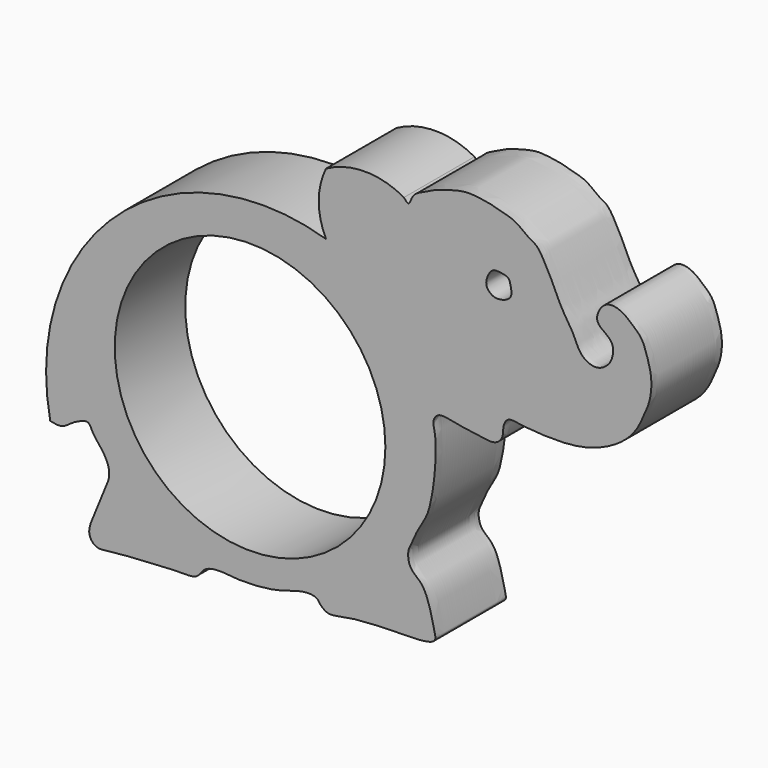
from build123d import *

# Parameters (mm, degrees)
F0_R     = 9.75
F1_DEPTH = 6.35


with BuildPart() as f1:
    # F0 (on Front) → F1 (new body)
    with BuildSketch(Plane.XZ):
        with BuildLine():
            ThreePointArc((-3.1697533292, 8.1384450586), (-3.6890684551, 5.9068302809), (-3.1697533292, 3.6752155032))
            ThreePointArc((-3.1697533292, 3.6752155032), (-18.1983390338, 0.3008746371), (-23.0383258459, -14.3216795933))
            add(Edge.make_bspline(
                [(2.4452780534, 8.1384450586), (2.5684903304, 7.9870655001), (2.8397562516, 7.653786087), (3.0197213416, 8.5505424972), (3.7655742436, 8.8949874463), (4.618098754, 9.3543974224), (5.5325039166, 9.6281891314), (6.3506558342, 9.856102724), (7.1135618384, 9.9651510289), (7.9135488319, 9.8727496412), (8.6716347154, 9.7729218338), (9.5871375594, 9.4944378325), (10.5415512712, 9.2705376511), (11.4299442854, 8.4535082307), (12.0982830744, 8.2281809431), (12.690619804, 7.096558771), (13.2021362263, 6.1681691684), (13.8043839537, 4.6938599096), (14.646748986, 3.6373172571), (15.1008459854, 2.1826775631), (16.3123443847, 1.7072375939), (17.1151556329, 2.2039207431), (17.4915393957, 2.7726511362), (17.5968800087, 3.847451348), (16.7842237057, 4.325997569), (16.2251421606, 4.8636970842), (16.5378073723, 5.7099014917), (17.0971580834, 6.2289421942), (18.104796534, 6.1305320528), (19.0471211802, 5.2986862405), (19.646141447, 4.7412031778), (19.9944843812, 3.6656017675), (20.3309881754, 2.5232038574), (20.2354467254, 1.0820721869), (19.7162670421, -0.1366418014), (19.0466177907, -1.5516022011), (17.6380941843, -2.6764190683), (16.1650042243, -3.3181429299), (14.9930408223, -3.5845487404), (13.6976417389, -3.7190794749), (11.6163883051, -3.6505357039), (10.7361893937, -3.5081014097), (9.8851966391, -3.3799611449), (9.5504717527, -4.0663130092), (9.6400738543, -4.7683376401), (9.0333422751, -5.4161082464), (7.9107536698, -5.2072975311), (6.487895522, -5.0335613798), (5.7556997703, -4.8661392385), (4.8934278706, -4.7290113567), (4.4683264018, -5.3625444479), (4.730582001, -6.0883324172), (4.7510258365, -7.5042029888), (4.6345141328, -9.088343012), (4.4036612773, -10.5625256581), (4.0758368281, -11.6615809059), (3.383199746, -12.6458279541), (3.0291307089, -13.6235152802), (2.6750264774, -14.1737814458), (2.8190363262, -15.3230948024), (3.7847786526, -15.8336675603), (4.3317419369, -17.2049174474), (4.6210909136, -18.6238607741), (4.8248610554, -19.3741309778), (3.5896474291, -19.6041033405), (2.4398279133, -19.571276276), (1.2596646219, -19.6151604363), (-0.4866075439, -19.6781263601), (-2.0230964334, -19.8748411533), (-3.0141828814, -20.1501401071), (-3.6225636614, -19.6397924214), (-3.8135671125, -19.2286943084), (-4.8651151354, -19.1378574204), (-6.3546062292, -19.7001933238), (-7.557962684, -19.909962818), (-9.268383458, -20.0302754255), (-10.3570362979, -19.8688243285), (-11.3783771061, -19.862860423), (-12.063358023, -20.1493940985), (-12.4450585808, -20.9430016432), (-13.7440858946, -20.8338646073), (-15.3384592845, -20.9850680129), (-16.9665388036, -21.0480813652), (-18.7068956009, -21.1724250165), (-19.7703745189, -21.3914489965), (-20.3992358634, -20.5221642868), (-19.9268128262, -19.3755826651), (-19.2656032505, -17.6932319287), (-18.5562188779, -16.2825330531), (-19.2367551965, -14.9336736623), (-20.0202294949, -14.1406661548), (-20.2194227484, -13.377624045), (-20.9846376741, -13.6631410333), (-21.5373478097, -13.9576495502), (-22.1692391341, -14.5038952011), (-22.7435076467, -14.3834921566), (-23.0383258459, -14.3216795933)],
                knots=[0, 0, 0, 0, 0.0068373074, 0.0150531144, 0.0244964179, 0.0347709868, 0.0449526928, 0.0545150751, 0.0636004804, 0.072846383, 0.0819567622, 0.0920455791, 0.1024298768, 0.1135929375, 0.1222015143, 0.1334950465, 0.1445261882, 0.157454768, 0.1697068216, 0.1822356214, 0.1932146457, 0.2027492023, 0.2113320678, 0.2214126391, 0.2311628183, 0.239808754, 0.2490338437, 0.2577979582, 0.2677397143, 0.279305355, 0.2886971123, 0.2994797987, 0.3109341586, 0.3232267695, 0.3351896877, 0.3480695493, 0.3619647816, 0.3751213413, 0.3862941731, 0.3983290692, 0.4132628787, 0.42338556, 0.4322369726, 0.440486895, 0.4491375879, 0.4579449517, 0.4688732654, 0.4813838629, 0.4906266275, 0.4997858722, 0.5078188474, 0.5166525801, 0.5289722878, 0.5423108555, 0.55496724, 0.5660321375, 0.5774365454, 0.5879124495, 0.5962490118, 0.6066516534, 0.6171163604, 0.6296583257, 0.6424161896, 0.6502456568, 0.660793581, 0.6722653043, 0.6835173587, 0.6973237229, 0.7104574577, 0.7206409783, 0.7292595669, 0.7358480155, 0.7458725862, 0.7590542819, 0.7707996452, 0.7842513743, 0.7953415705, 0.8056627559, 0.814325773, 0.8232635304, 0.8345106499, 0.847842081, 0.8612938066, 0.8751159686, 0.8854347882, 0.8948032692, 0.9060279331, 0.9202588115, 0.932996591, 0.9452106325, 0.9563704702, 0.9644531733, 0.972758406, 0.9813401944, 0.9904204215, 1, 1, 1, 1], degree=3))
            ThreePointArc((2.4452780534, 8.1384450586), (-0.3622376379, 8.869586246), (-3.1697533292, 8.1384450586))
        make_face()
        with Locations((-8.6408095931, -8.1307477363)):
            Circle(F0_R, mode=Mode.SUBTRACT)
        with BuildLine():
            add(Edge.make_bspline(
                [(8.5812290582, 5.311966115), (8.6649071223, 5.4528945932), (8.8638572963, 5.6671872823), (9.3049243558, 5.6582977479), (10.0265955729, 5.5498200473), (10.1050878954, 5.1123851715), (10.3239286646, 4.2689624048), (9.5135842582, 3.8861232033), (8.8325048729, 3.8942304443), (8.4027738734, 4.3401741857), (8.3405265345, 4.7532117016), (8.4820033376, 5.1448526671), (8.5812290582, 5.311966115)],
                knots=[0, 0, 0, 0, 0.0873651609, 0.1757895272, 0.2843336783, 0.3694568792, 0.4860425007, 0.6026246835, 0.7122083125, 0.8117457415, 0.8964021079, 1, 1, 1, 1], degree=3))
        make_face(mode=Mode.SUBTRACT)
    extrude(amount=F1_DEPTH)


solid = f1.part
